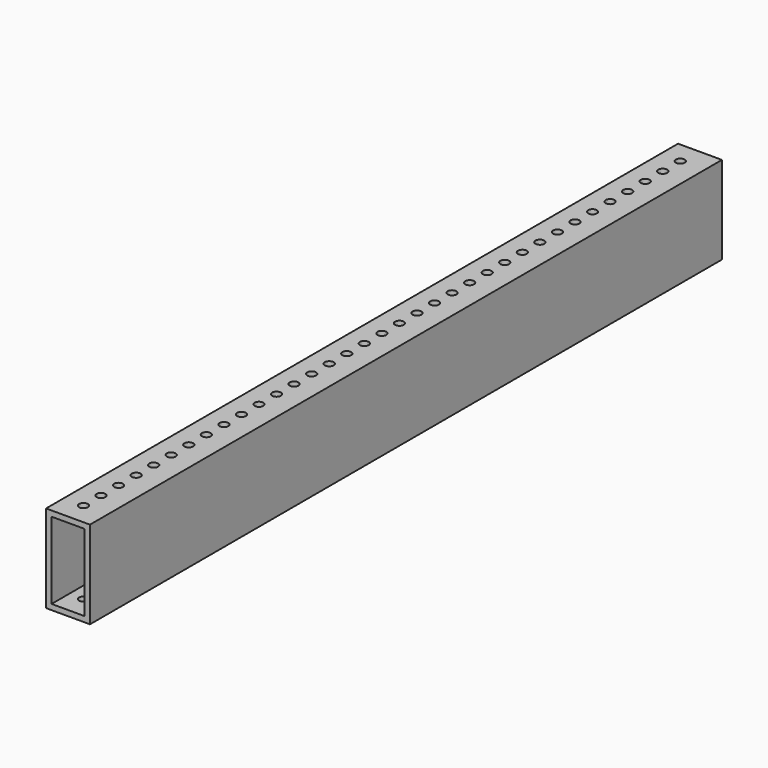
from build123d import *

# Parameters (mm, degrees)
F0_W     = 25.4
F0_H     = 50.8
F0_W_2   = 19.05
F0_H_2   = 44.45
F1_DEPTH = 228.6
F2_W     = 25.4
F2_H     = 457.2
F2_R     = 2.5527
F3_DEPTH = 50.801


with BuildPart() as f1:
    # F0 (on Front) → F1 (new body, symmetric)
    with BuildSketch(Plane.XZ):
        Rectangle(F0_W, F0_H)
        Rectangle(F0_W_2, F0_H_2, mode=Mode.SUBTRACT)
    extrude(amount=F1_DEPTH, both=True)

    # F2 (on face) → F3 (intersect, through all)
    with BuildSketch(Plane.XY.offset(25.4)):
        Rectangle(F2_W, F2_H)
        with Locations((-1.224507, -215.9)):
            Circle(F2_R, mode=Mode.SUBTRACT)
        with Locations((-1.224507, -203.2)):
            Circle(F2_R, mode=Mode.SUBTRACT)
        with Locations((-1.224507, -190.5)):
            Circle(F2_R, mode=Mode.SUBTRACT)
        with Locations((-1.224507, -177.8)):
            Circle(F2_R, mode=Mode.SUBTRACT)
        with Locations((-1.224507, -165.1)):
            Circle(F2_R, mode=Mode.SUBTRACT)
        with Locations((-1.224507, -152.4)):
            Circle(F2_R, mode=Mode.SUBTRACT)
        with Locations((-1.224507, -139.7)):
            Circle(F2_R, mode=Mode.SUBTRACT)
        with Locations((-1.224507, -127)):
            Circle(F2_R, mode=Mode.SUBTRACT)
        with Locations((-1.224507, -114.3)):
            Circle(F2_R, mode=Mode.SUBTRACT)
        with Locations((-1.224507, -101.6)):
            Circle(F2_R, mode=Mode.SUBTRACT)
        with Locations((-1.224507, -88.9)):
            Circle(F2_R, mode=Mode.SUBTRACT)
        with Locations((-1.224507, -76.2)):
            Circle(F2_R, mode=Mode.SUBTRACT)
        with Locations((-1.224507, -63.5)):
            Circle(F2_R, mode=Mode.SUBTRACT)
        with Locations((-1.224507, -50.8)):
            Circle(F2_R, mode=Mode.SUBTRACT)
        with Locations((-1.224507, -38.1)):
            Circle(F2_R, mode=Mode.SUBTRACT)
        with Locations((-1.224507, -25.4)):
            Circle(F2_R, mode=Mode.SUBTRACT)
        with Locations((-1.224507, -12.7)):
            Circle(F2_R, mode=Mode.SUBTRACT)
        with Locations((-1.224507, 0)):
            Circle(F2_R, mode=Mode.SUBTRACT)
        with Locations((-1.224507, 12.7)):
            Circle(F2_R, mode=Mode.SUBTRACT)
        with Locations((-1.224507, 25.4)):
            Circle(F2_R, mode=Mode.SUBTRACT)
        with Locations((-1.224507, 38.1)):
            Circle(F2_R, mode=Mode.SUBTRACT)
        with Locations((-1.224507, 50.8)):
            Circle(F2_R, mode=Mode.SUBTRACT)
        with Locations((-1.224507, 63.5)):
            Circle(F2_R, mode=Mode.SUBTRACT)
        with Locations((-1.224507, 76.2)):
            Circle(F2_R, mode=Mode.SUBTRACT)
        with Locations((-1.224507, 88.9)):
            Circle(F2_R, mode=Mode.SUBTRACT)
        with Locations((-1.224507, 101.6)):
            Circle(F2_R, mode=Mode.SUBTRACT)
        with Locations((-1.224507, 114.3)):
            Circle(F2_R, mode=Mode.SUBTRACT)
        with Locations((-1.224507, 127)):
            Circle(F2_R, mode=Mode.SUBTRACT)
        with Locations((-1.224507, 139.7)):
            Circle(F2_R, mode=Mode.SUBTRACT)
        with Locations((-1.224507, 152.4)):
            Circle(F2_R, mode=Mode.SUBTRACT)
        with Locations((-1.224507, 165.1)):
            Circle(F2_R, mode=Mode.SUBTRACT)
        with Locations((-1.224507, 177.8)):
            Circle(F2_R, mode=Mode.SUBTRACT)
        with Locations((-1.224507, 190.5)):
            Circle(F2_R, mode=Mode.SUBTRACT)
        with Locations((-1.224507, 203.2)):
            Circle(F2_R, mode=Mode.SUBTRACT)
        with Locations((-1.224507, 215.9)):
            Circle(F2_R, mode=Mode.SUBTRACT)
    extrude(amount=-F3_DEPTH, mode=Mode.INTERSECT)


solid = f1.part
